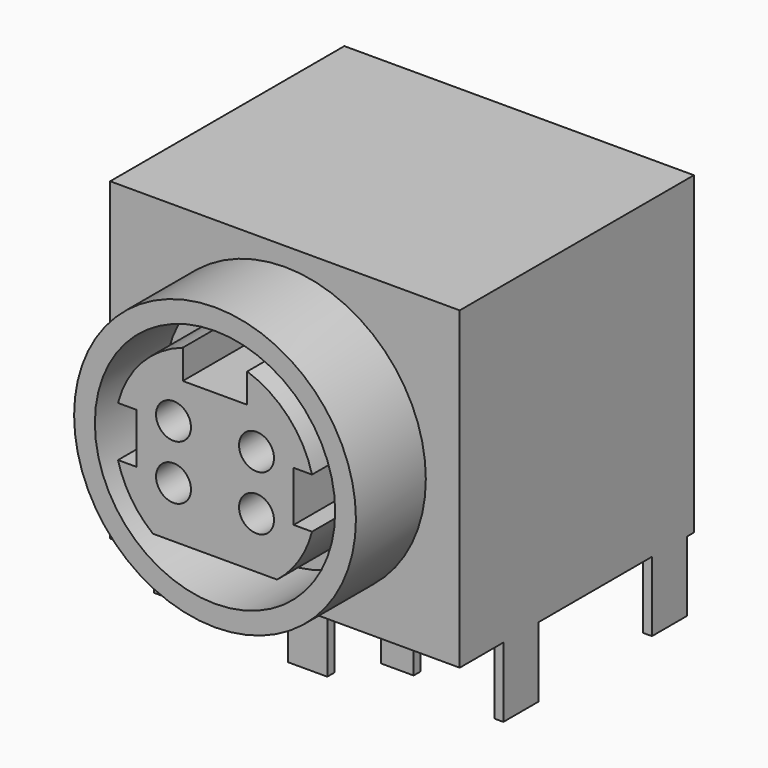
from build123d import *

# Parameters (mm, degrees)
F0_W     = 16
F0_H     = 13.4
F1_DEPTH = 14.4
F2_R     = 6.45
F2_R_2   = 5.5
F3_DEPTH = 4
F4_R     = 0.8
F5_DEPTH = 4
F6_W     = 1.8
F6_H     = 0.4
F6_W_2   = 0.4
F6_H_2   = 2
F6_W_3   = 1.5
F7_DEPTH = 3.2
F8_W     = 0.3
F8_H     = 2
F9_DEPTH = 3.2


with BuildPart() as f1:
    # F0 (on Top) → F1 (new body)
    with BuildSketch(Plane.XY):
        Rectangle(F0_W, F0_H)
    extrude(amount=F1_DEPTH)

    # F2 (on face) → F3 (join)
    with BuildSketch(Plane.XZ.offset(6.7)):
        with Locations((0, 7.1)):
            Circle(F2_R)
        with Locations((0, 7.1)):
            Circle(F2_R_2, mode=Mode.SUBTRACT)
    extrude(amount=F3_DEPTH)

    # F6 (on face) → F7 (join)
    with BuildSketch(Plane(origin=(0, 0, 0), x_dir=(1, 0, 0), z_dir=(0, 0, -1))):
        with Locations((0, 5.2)):
            Rectangle(F6_W, F6_H)
        with Locations((7.8, 3.2)):
            Rectangle(F6_W_2, F6_H_2)
        with Locations((7.8, -5.3)):
            Rectangle(F6_W_2, F6_H_2)
        with Locations((-7.8, 3.2)):
            Rectangle(F6_W_2, F6_H_2)
        with Locations((-7.8, -5.3)):
            Rectangle(F6_W_2, F6_H_2)
        with Locations((-2.5, 3.2)):
            Rectangle(F6_W_3, F6_H)
        with Locations((2.5, 3.2)):
            Rectangle(F6_W_3, F6_H)
    extrude(amount=F7_DEPTH)


with BuildPart() as f5:
    # F4 (on face) → F5 (new body)
    with BuildSketch(Plane.XZ.offset(6.7)):
        with BuildLine():
            Line((-3.6, 5.95), (-4.439502, 5.95))
            ThreePointArc((-4.439502, 5.95), (-3.840873, 4.594133), (-2.84107, 3.5))
            Line((-2.84107, 3.5), (2.84107, 3.5))
            ThreePointArc((2.84107, 3.5), (3.840873, 4.594133), (4.439502, 5.95))
            Line((4.439502, 5.95), (3.6, 5.95))
            Line((3.6, 5.95), (3.6, 8.25))
            Line((3.6, 8.25), (4.439502, 8.25))
            ThreePointArc((4.439502, 8.25), (3.360523, 10.220667), (1.475, 11.442356))
            Line((1.475, 11.442356), (1.475, 10.1))
            Line((1.475, 10.1), (-1.475, 10.1))
            Line((-1.475, 10.1), (-1.475, 11.442356))
            ThreePointArc((-1.475, 11.442356), (-3.360523, 10.220667), (-4.439502, 8.25))
            Line((-4.439502, 8.25), (-3.6, 8.25))
            Line((-3.6, 8.25), (-3.6, 5.95))
        make_face()
        with Locations((-1.9, 5.85)):
            Circle(F4_R, mode=Mode.SUBTRACT)
        with Locations((1.9, 5.85)):
            Circle(F4_R, mode=Mode.SUBTRACT)
        with Locations((-1.9, 8.35)):
            Circle(F4_R, mode=Mode.SUBTRACT)
        with Locations((1.9, 8.35)):
            Circle(F4_R, mode=Mode.SUBTRACT)
    extrude(amount=F5_DEPTH)


with BuildPart() as f9:
    # F8 (on face) → F9 (new body)
    with BuildSketch(Plane(origin=(0, 0, 0), x_dir=(1, 0, 0), z_dir=(0, 0, -1))):
        with Locations((-2.5, -0.3)):
            Rectangle(F8_W, F8_H)
        with Locations((2.5, -0.3)):
            Rectangle(F8_W, F8_H)
        with Locations((-2.9, -3.95)):
            Rectangle(F8_W, F8_H)
        with Locations((2.9, -3.95)):
            Rectangle(F8_W, F8_H)
    extrude(amount=F9_DEPTH)


solid = Compound([f1.part, f5.part, f9.part])
